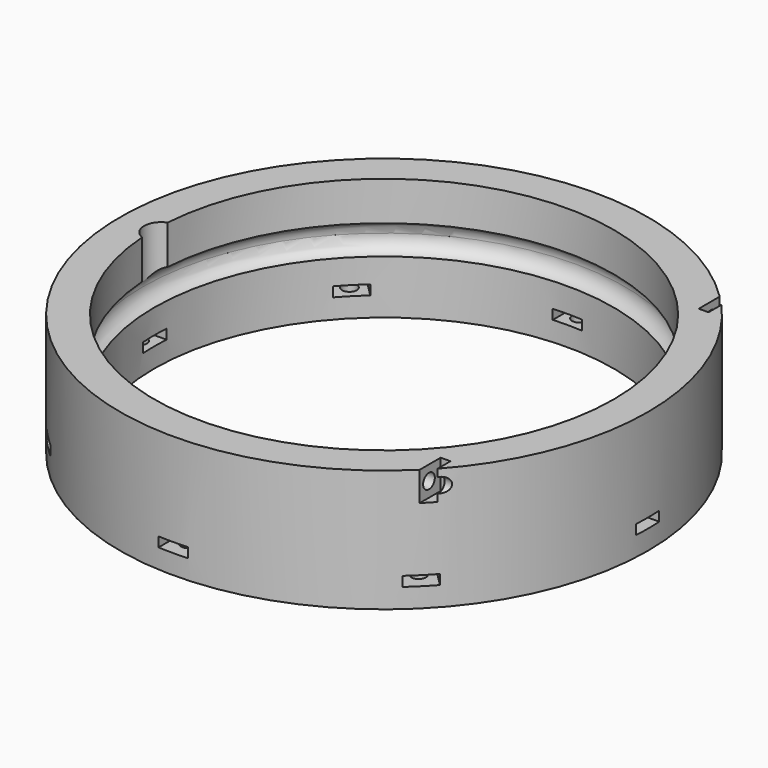
from build123d import *

# Parameters (mm, degrees)
BOX174_W                    = 2
BOX174_H                    = 6
BOX174_DEPTH                = 6
BOX175_W                    = 2
BOX175_H                    = 6
BOX175_DEPTH                = 6
BOX176_W                    = 2
BOX176_H                    = 6
BOX176_DEPTH                = 6
BOX173_W                    = 2
BOX173_H                    = 6
BOX173_DEPTH                = 6
CYLINDER397_R               = 1.5
CYLINDER397_DEPTH           = 100
CYLINDER398_R               = 1.5
CYLINDER398_DEPTH           = 100
CYLINDER395_R               = 1.5
CYLINDER395_DEPTH           = 100
CYLINDER396_R               = 1.5
CYLINDER396_DEPTH           = 100
CYLINDER375_R               = 1.5
CYLINDER375_DEPTH           = 50
CYLINDER375_PLACEMENT_ANGLE = 45
CYLINDER376_R               = 1.5
CYLINDER376_DEPTH           = 50
CYLINDER377_R               = 1.5
CYLINDER377_DEPTH           = 50
CYLINDER377_PLACEMENT_ANGLE = 135
CYLINDER378_R               = 1.5
CYLINDER378_DEPTH           = 50
CYLINDER379_R               = 1.5
CYLINDER379_DEPTH           = 50
CYLINDER379_PLACEMENT_ANGLE = 225
CYLINDER380_R               = 1.5
CYLINDER380_DEPTH           = 50
CYLINDER381_R               = 1.5
CYLINDER381_DEPTH           = 50
CYLINDER381_PLACEMENT_ANGLE = 45
CYLINDER374_R               = 1.5
CYLINDER374_DEPTH           = 50
BOX158_W                    = 8
BOX158_H                    = 6
BOX158_DEPTH                = 2
BOX158_PLACEMENT_ANGLE      = 45
BOX159_W                    = 8
BOX159_H                    = 6
BOX159_DEPTH                = 2
BOX160_W                    = 8
BOX160_H                    = 6
BOX160_DEPTH                = 2
BOX160_PLACEMENT_ANGLE      = 135
BOX161_W                    = 8
BOX161_H                    = 6
BOX161_DEPTH                = 2
BOX162_W                    = 8
BOX162_H                    = 6
BOX162_DEPTH                = 2
BOX162_PLACEMENT_ANGLE      = 225
BOX163_W                    = 8
BOX163_H                    = 6
BOX163_DEPTH                = 2
BOX164_W                    = 8
BOX164_H                    = 6
BOX164_DEPTH                = 2
BOX164_PLACEMENT_ANGLE      = 45
BOX157_W                    = 8
BOX157_H                    = 6
BOX157_DEPTH                = 2
CYLINDER006_R               = 3.5
CYLINDER006_DEPTH           = 16
TORUS004_R                  = 3.1
TUBE002_R                   = 54
TUBE002_R_2                 = 47
TUBE002_DEPTH               = 25


with BuildPart() as krychle174:
    # Box174 → Box174 (new body)
    with BuildSketch(Plane(origin=(32, -54, 24), x_dir=(1, 0, 0), z_dir=(0, 0, 1))):
        with Locations((1, 3)):
            Rectangle(BOX174_W, BOX174_H)
    extrude(amount=BOX174_DEPTH)


with BuildPart() as krychle175:
    # Box175 → Box175 (new body)
    with BuildSketch(Plane(origin=(38, 33, 39), x_dir=(1, 0, 0), z_dir=(0, 0, 1))):
        with Locations((1, 3)):
            Rectangle(BOX175_W, BOX175_H)
    extrude(amount=BOX175_DEPTH)


with BuildPart() as krychle176:
    # Box176 → Box176 (new body)
    with BuildSketch(Plane(origin=(38, -39, 39), x_dir=(1, 0, 0), z_dir=(0, 0, 1))):
        with Locations((1, 3)):
            Rectangle(BOX176_W, BOX176_H)
    extrude(amount=BOX176_DEPTH)


with BuildPart() as compound302:
    # Box173 → Box173 (new body)
    with BuildSketch(Plane(origin=(32, 48, 24), x_dir=(1, 0, 0), z_dir=(0, 0, 1))):
        with Locations((1, 3)):
            Rectangle(BOX173_W, BOX173_H)
    extrude(amount=BOX173_DEPTH)

    # Compound302: union Krychle174, Krychle175, Krychle176
    add(krychle174.part)
    add(krychle175.part)
    add(krychle176.part)


with BuildPart() as obj1:
    # Cylinder397 → Cylinder397 (new body)
    with BuildSketch(Plane(origin=(24, -51, 27), x_dir=(0, 0, -1), z_dir=(1, 0, 0))):
        Circle(CYLINDER397_R)
    extrude(amount=CYLINDER397_DEPTH)


with BuildPart() as obj2:
    # Cylinder398 → Cylinder398 (new body)
    with BuildSketch(Plane(origin=(34, 36, 42), x_dir=(0, 0, -1), z_dir=(1, 0, 0))):
        Circle(CYLINDER398_R)
    extrude(amount=CYLINDER398_DEPTH)


with BuildPart() as obj3:
    # Cylinder395 → Cylinder395 (new body)
    with BuildSketch(Plane(origin=(34, -36, 42), x_dir=(0, 0, -1), z_dir=(1, 0, 0))):
        Circle(CYLINDER395_R)
    extrude(amount=CYLINDER395_DEPTH)


with BuildPart() as compound303:
    # Cylinder396 → Cylinder396 (new body)
    with BuildSketch(Plane(origin=(24, 51, 27), x_dir=(0, 0, -1), z_dir=(1, 0, 0))):
        Circle(CYLINDER396_R)
    extrude(amount=CYLINDER396_DEPTH)

    # Compound303: union obj1, obj2, obj3
    add(obj1.part)
    add(obj2.part)
    add(obj3.part)


with BuildPart() as obj4:
    # Cylinder375 → Cylinder375 (new body)
    with BuildSketch(Plane.XY):
        Circle(CYLINDER375_R)
    extrude(amount=CYLINDER375_DEPTH)


with BuildPart() as obj4_1:
    # Cylinder375 placement: moved
    add(obj4.part.moved(Location((35.355339, 35.355339, -15))).rotate(Axis((35.355339, 35.355339, -15), (0, 0, 1)), CYLINDER375_PLACEMENT_ANGLE))


with BuildPart() as obj5:
    # Cylinder376 → Cylinder376 (new body)
    with BuildSketch(Plane(origin=(0, 50, -15), x_dir=(0, 1, 0), z_dir=(0, 0, 1))):
        Circle(CYLINDER376_R)
    extrude(amount=CYLINDER376_DEPTH)


with BuildPart() as obj6:
    # Cylinder377 → Cylinder377 (new body)
    with BuildSketch(Plane.XY):
        Circle(CYLINDER377_R)
    extrude(amount=CYLINDER377_DEPTH)


with BuildPart() as obj6_1:
    # Cylinder377 placement: moved
    add(obj6.part.moved(Location((-35.355339, 35.355339, -15))).rotate(Axis((-35.355339, 35.355339, -15), (0, 0, 1)), CYLINDER377_PLACEMENT_ANGLE))


with BuildPart() as obj7:
    # Cylinder378 → Cylinder378 (new body)
    with BuildSketch(Plane(origin=(-50, 0, -15), x_dir=(-1, 0, 0), z_dir=(0, 0, 1))):
        Circle(CYLINDER378_R)
    extrude(amount=CYLINDER378_DEPTH)


with BuildPart() as obj8:
    # Cylinder379 → Cylinder379 (new body)
    with BuildSketch(Plane.XY):
        Circle(CYLINDER379_R)
    extrude(amount=CYLINDER379_DEPTH)


with BuildPart() as obj8_1:
    # Cylinder379 placement: moved
    add(obj8.part.moved(Location((-35.355339, -35.355339, -15))).rotate(Axis((-35.355339, -35.355339, -15), (0, 0, 1)), CYLINDER379_PLACEMENT_ANGLE))


with BuildPart() as obj9:
    # Cylinder380 → Cylinder380 (new body)
    with BuildSketch(Plane(origin=(0, -50, -15), x_dir=(0, -1, 0), z_dir=(0, 0, 1))):
        Circle(CYLINDER380_R)
    extrude(amount=CYLINDER380_DEPTH)


with BuildPart() as obj10:
    # Cylinder381 → Cylinder381 (new body)
    with BuildSketch(Plane.XY):
        Circle(CYLINDER381_R)
    extrude(amount=CYLINDER381_DEPTH)


with BuildPart() as obj10_1:
    # Cylinder381 placement: moved
    add(obj10.part.moved(Location((35.355339, -35.355339, -15))).rotate(Axis((35.355339, -35.355339, -15), (0, 0, -1)), CYLINDER381_PLACEMENT_ANGLE))


with BuildPart() as compound298:
    # Cylinder374 → Cylinder374 (new body)
    with BuildSketch(Plane(origin=(50, 0, -15), x_dir=(1, 0, 0), z_dir=(0, 0, 1))):
        Circle(CYLINDER374_R)
    extrude(amount=CYLINDER374_DEPTH)

    # Compound298: union obj4, obj5, obj6, obj7, obj8, obj9, obj10
    add(obj4_1.part)
    add(obj5.part)
    add(obj6_1.part)
    add(obj7.part)
    add(obj8_1.part)
    add(obj9.part)
    add(obj10_1.part)


with BuildPart() as compound298_1:
    # Compound298 placement: moved
    add(compound298.part.moved(Location((0, 0, -5))))


with BuildPart() as krychle158:
    # Box158 → Box158 (new body)
    with BuildSketch(Plane.XY):
        with Locations((4, 3)):
            Rectangle(BOX158_W, BOX158_H)
    extrude(amount=BOX158_DEPTH)


with BuildPart() as krychle158_1:
    # Box158 placement: moved
    add(krychle158.part.moved(Location((34.648232, 30.405592, 23))).rotate(Axis((34.648232, 30.405592, 23), (0, 0, 1)), BOX158_PLACEMENT_ANGLE))


with BuildPart() as krychle159:
    # Box159 → Box159 (new body)
    with BuildSketch(Plane(origin=(3, 46, 23), x_dir=(0, 1, 0), z_dir=(0, 0, 1))):
        with Locations((4, 3)):
            Rectangle(BOX159_W, BOX159_H)
    extrude(amount=BOX159_DEPTH)


with BuildPart() as krychle160:
    # Box160 → Box160 (new body)
    with BuildSketch(Plane.XY):
        with Locations((4, 3)):
            Rectangle(BOX160_W, BOX160_H)
    extrude(amount=BOX160_DEPTH)


with BuildPart() as krychle160_1:
    # Box160 placement: moved
    add(krychle160.part.moved(Location((-30.405592, 34.648232, 23))).rotate(Axis((-30.405592, 34.648232, 23), (0, 0, 1)), BOX160_PLACEMENT_ANGLE))


with BuildPart() as krychle161:
    # Box161 → Box161 (new body)
    with BuildSketch(Plane(origin=(-46, 3, 23), x_dir=(-1, 0, 0), z_dir=(0, 0, 1))):
        with Locations((4, 3)):
            Rectangle(BOX161_W, BOX161_H)
    extrude(amount=BOX161_DEPTH)


with BuildPart() as krychle162:
    # Box162 → Box162 (new body)
    with BuildSketch(Plane.XY):
        with Locations((4, 3)):
            Rectangle(BOX162_W, BOX162_H)
    extrude(amount=BOX162_DEPTH)


with BuildPart() as krychle162_1:
    # Box162 placement: moved
    add(krychle162.part.moved(Location((-34.648232, -30.405592, 23))).rotate(Axis((-34.648232, -30.405592, 23), (0, 0, 1)), BOX162_PLACEMENT_ANGLE))


with BuildPart() as krychle163:
    # Box163 → Box163 (new body)
    with BuildSketch(Plane(origin=(-3, -46, 23), x_dir=(0, -1, 0), z_dir=(0, 0, 1))):
        with Locations((4, 3)):
            Rectangle(BOX163_W, BOX163_H)
    extrude(amount=BOX163_DEPTH)


with BuildPart() as krychle164:
    # Box164 → Box164 (new body)
    with BuildSketch(Plane.XY):
        with Locations((4, 3)):
            Rectangle(BOX164_W, BOX164_H)
    extrude(amount=BOX164_DEPTH)


with BuildPart() as krychle164_1:
    # Box164 placement: moved
    add(krychle164.part.moved(Location((30.405592, -34.648232, 23))).rotate(Axis((30.405592, -34.648232, 23), (0, 0, -1)), BOX164_PLACEMENT_ANGLE))


with BuildPart() as compound297:
    # Box157 → Box157 (new body)
    with BuildSketch(Plane(origin=(46, -3, 23), x_dir=(1, 0, 0), z_dir=(0, 0, 1))):
        with Locations((4, 3)):
            Rectangle(BOX157_W, BOX157_H)
    extrude(amount=BOX157_DEPTH)

    # Compound297: union Krychle158, Krychle159, Krychle160, Krychle161, Krychle162, Krychle163, Krychle164
    add(krychle158_1.part)
    add(krychle159.part)
    add(krychle160_1.part)
    add(krychle161.part)
    add(krychle162_1.part)
    add(krychle163.part)
    add(krychle164_1.part)


with BuildPart() as compound297_1:
    # Compound297 placement: moved
    add(compound297.part.moved(Location((0, 0, 1))))


with BuildPart() as obj11:
    # Cylinder006 → Cylinder006 (new body)
    with BuildSketch(Plane(origin=(-45.6, 0, 34), x_dir=(1, 0, 0), z_dir=(0, 0, 1))):
        Circle(CYLINDER006_R)
    extrude(amount=CYLINDER006_DEPTH)


with BuildPart() as obj12:
    # Torus004 → Torus004 (revolve)
    with BuildSketch(Plane(origin=(0, 0, 34), x_dir=(1, 0, 0), z_dir=(0, -1, 0))):
        with Locations((46.2, 0)):
            Circle(TORUS004_R)
    revolve(axis=Axis((0, 0, 34), (0, 0, 1)))


with BuildPart() as cut160:
    # Tube002 → Tube002 (new body)
    with BuildSketch(Plane.XY.offset(20)):
        Circle(TUBE002_R)
        Circle(TUBE002_R_2, mode=Mode.SUBTRACT)
    extrude(amount=TUBE002_DEPTH)

    # Cut009: cut obj12
    add(obj12.part, mode=Mode.SUBTRACT)

    # Cut010: cut obj11
    add(obj11.part, mode=Mode.SUBTRACT)

    # Cut151: cut Compound297
    add(compound297_1.part, mode=Mode.SUBTRACT)

    # Cut152: cut Compound298
    add(compound298_1.part, mode=Mode.SUBTRACT)

    # Cut159: cut Compound303
    add(compound303.part, mode=Mode.SUBTRACT)

    # Cut160: cut Compound302
    add(compound302.part, mode=Mode.SUBTRACT)


solid = cut160.part
